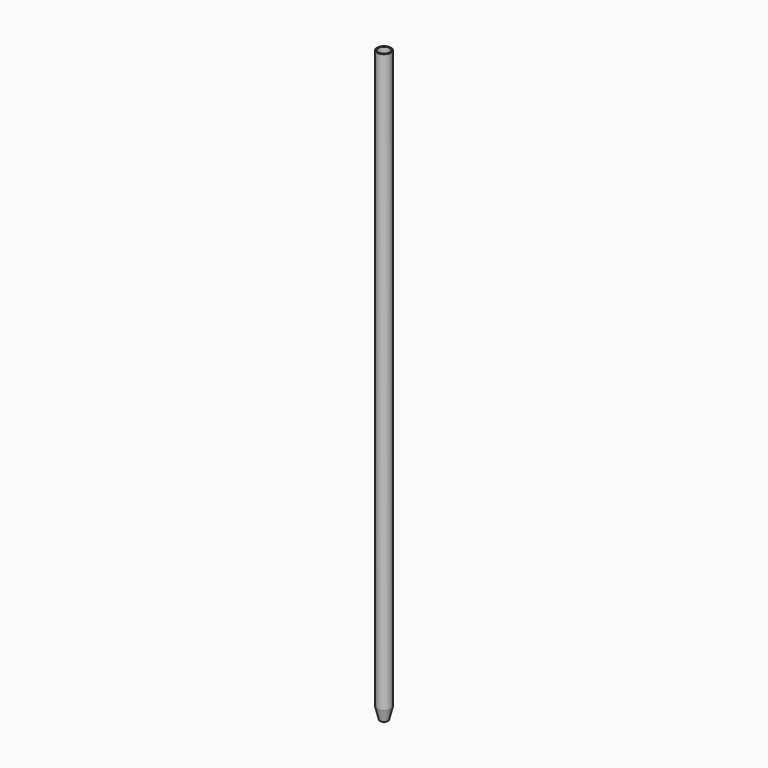
from build123d import *

# Parameters (mm, degrees)
F2_R     = 0.75
F3_DEPTH = 2


with BuildPart() as f1:
    # F0 (on Front) → F1 (revolve)
    with BuildSketch(Plane.XZ):
        Polygon((-10, 22), (-10, 1020), (-12, 1020), (-12, 20), (-7, 0), (-5, 0), (-10, 20), (0, 20), (0, 22), align=None)
    revolve(axis=Axis((0, 0, 510), (0, 0, 1)))

    # F2 (on face) → F3 (cut, through all)
    with BuildSketch(Plane.XY.offset(22)):
        with Locations((-3.96755, 5.460865)):
            Circle(F2_R)
        with Locations((-6.363961, 6.363961)):
            Circle(F2_R)
        with Locations((-4.5, 7.794229)):
            Circle(F2_R)
        with Locations((-2.085865, 6.419631)):
            Circle(F2_R)
        with Locations((-2.329371, 8.693332)):
            Circle(F2_R)
        with Locations((0, 9)):
            Circle(F2_R)
        with Locations((0, 6.75)):
            Circle(F2_R)
        with Locations((2.085865, 6.419631)):
            Circle(F2_R)
        with Locations((2.329371, 8.693332)):
            Circle(F2_R)
        with Locations((4.5, 7.794229)):
            Circle(F2_R)
        with Locations((6.363961, 6.363961)):
            Circle(F2_R)
        with Locations((3.96755, 5.460865)):
            Circle(F2_R)
        with Locations((5.460865, 3.96755)):
            Circle(F2_R)
        with Locations((7.794229, 4.5)):
            Circle(F2_R)
        with Locations((8.693332, 2.329371)):
            Circle(F2_R)
        with Locations((6.419631, 2.085865)):
            Circle(F2_R)
        with Locations((3.897114, 2.25)):
            Circle(F2_R)
        with Locations((1.948557, 1.125)):
            Circle(F2_R)
        with Locations((2.25, 3.897114)):
            Circle(F2_R)
        with Locations((0, 4.5)):
            Circle(F2_R)
        with Locations((0, 2.25)):
            Circle(F2_R)
        with Locations((-2.25, 3.897114)):
            Circle(F2_R)
        with Locations((-1.948557, 1.125)):
            Circle(F2_R)
        with Locations((-3.897114, 2.25)):
            Circle(F2_R)
        with Locations((-5.460865, 3.96755)):
            Circle(F2_R)
        with Locations((-7.794229, 4.5)):
            Circle(F2_R)
        with Locations((-8.693332, 2.329371)):
            Circle(F2_R)
        with Locations((-6.419631, 2.085865)):
            Circle(F2_R)
        with Locations((-4.5, 0)):
            Circle(F2_R)
        Circle(F2_R)
        with Locations((4.5, 0)):
            Circle(F2_R)
        with Locations((6.75, 0)):
            Circle(F2_R)
        with Locations((9, 0)):
            Circle(F2_R)
        with Locations((1.948557, -1.125)):
            Circle(F2_R)
        with Locations((3.897114, -2.25)):
            Circle(F2_R)
        with Locations((6.419631, -2.085865)):
            Circle(F2_R)
        with Locations((8.693332, -2.329371)):
            Circle(F2_R)
        with Locations((7.794229, -4.5)):
            Circle(F2_R)
        with Locations((6.363961, -6.363961)):
            Circle(F2_R)
        with Locations((5.460865, -3.96755)):
            Circle(F2_R)
        with Locations((3.96755, -5.460865)):
            Circle(F2_R)
        with Locations((4.5, -7.794229)):
            Circle(F2_R)
        with Locations((2.329371, -8.693332)):
            Circle(F2_R)
        with Locations((0, -9)):
            Circle(F2_R)
        with Locations((2.085865, -6.419631)):
            Circle(F2_R)
        with Locations((2.25, -3.897114)):
            Circle(F2_R)
        with Locations((0, -6.75)):
            Circle(F2_R)
        with Locations((0, -4.5)):
            Circle(F2_R)
        with Locations((0, -2.25)):
            Circle(F2_R)
        with Locations((-1.948557, -1.125)):
            Circle(F2_R)
        with Locations((-2.25, -3.897114)):
            Circle(F2_R)
        with Locations((-2.085865, -6.419631)):
            Circle(F2_R)
        with Locations((-2.329371, -8.693332)):
            Circle(F2_R)
        with Locations((-4.5, -7.794229)):
            Circle(F2_R)
        with Locations((-3.96755, -5.460865)):
            Circle(F2_R)
        with Locations((-3.897114, -2.25)):
            Circle(F2_R)
        with Locations((-5.460865, -3.96755)):
            Circle(F2_R)
        with Locations((-6.363961, -6.363961)):
            Circle(F2_R)
        with Locations((-7.794229, -4.5)):
            Circle(F2_R)
        with Locations((-8.693332, -2.329371)):
            Circle(F2_R)
        with Locations((-6.419631, -2.085865)):
            Circle(F2_R)
        with Locations((-6.75, 0)):
            Circle(F2_R)
        with Locations((-9, 0)):
            Circle(F2_R)
    extrude(amount=-F3_DEPTH, mode=Mode.SUBTRACT)


solid = f1.part
